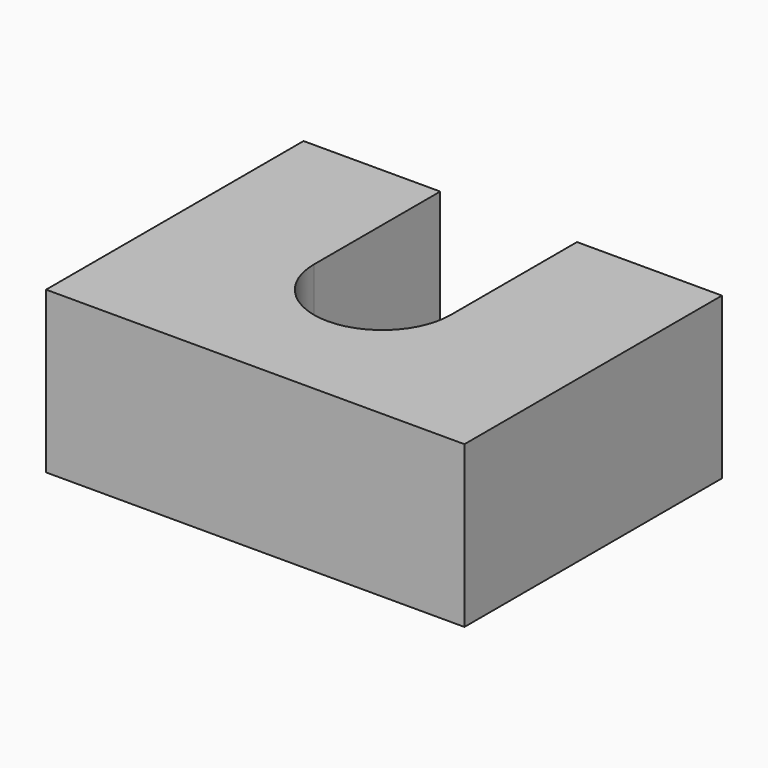
from build123d import *

# Parameters (mm, degrees)
F0_W     = 13
F0_H     = 10
F1_DEPTH = 5
F3_DEPTH = 10


with BuildPart() as f1:
    # F0 (on Top) → F1 (new body)
    with BuildSketch(Plane.XY):
        with Locations((0.128049, -0.096843)):
            Rectangle(F0_W, F0_H)
    extrude(amount=F1_DEPTH)

    # F2 (on face) → F3 (cut)
    with BuildSketch(Plane.XY.offset(5)):
        with BuildLine():
            Line((-2.125, 4.903157), (-2.125, 0))
            ThreePointArc((-2.125, 0), (0, -2.125), (2.125, 0))
            Line((2.125, 0), (2.125, 4.903157))
            Line((2.125, 4.903157), (-2.125, 4.903157))
        make_face()
    extrude(amount=-F3_DEPTH, mode=Mode.SUBTRACT)


solid = f1.part
